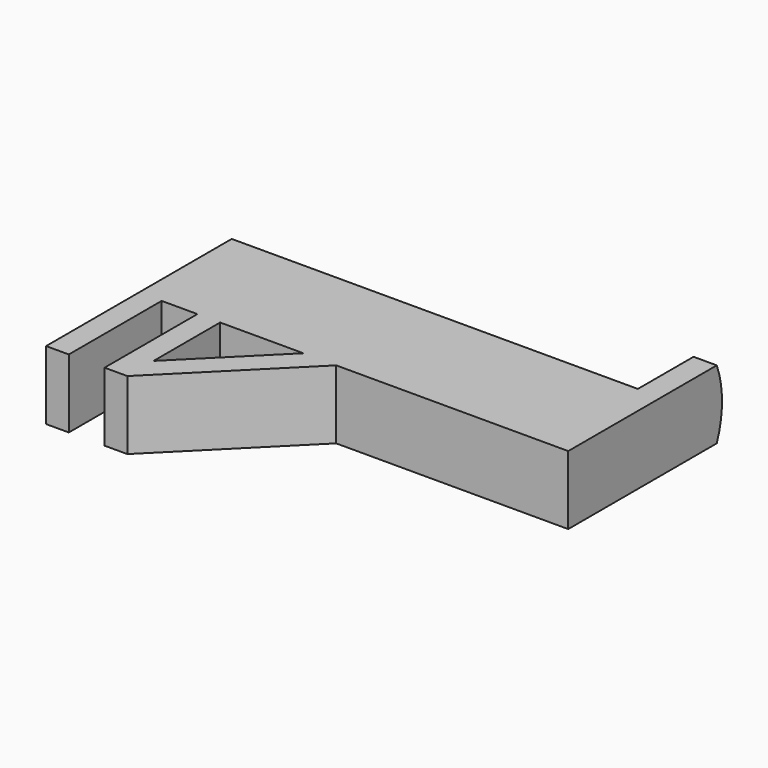
from build123d import *

# Parameters (mm, degrees)
F1_DEPTH = 14.8
F3_DEPTH = 70
F5_DEPTH = 5
F7_DEPTH = 14.8


with BuildPart() as f1:
    # F0 (on Top) → F1 (new body)
    with BuildSketch(Plane.XY):
        Polygon((0, 50), (0, 0), (4.9, 0), (4.9, 25), (12.6, 25), (12.6, 0), (17.5, 0), (17.5, 50), align=None)
    extrude(amount=F1_DEPTH)

    # F2 (on face) → F3 (join)
    with BuildSketch(Plane.YZ.offset(17.5)):
        with BuildLine():
            ThreePointArc((50, 0), (51.419365, 7.4), (50, 14.8))
            Line((50, 14.8), (25, 14.8))
            Line((25, 14.8), (25, 0))
            Line((25, 0), (50, 0))
        make_face()
    extrude(amount=F3_DEPTH)

    # F4 (on face) → F5 (join)
    with BuildSketch(Plane.YZ.offset(87.5)):
        with BuildLine():
            Line((65, 14.8), (25, 14.8))
            Line((25, 14.8), (25, 0))
            Line((25, 0), (65, 0))
            ThreePointArc((65, 0), (66.419365, 7.4), (65, 14.8))
        make_face()
    extrude(amount=F5_DEPTH)

    # F6 (on face) → F7 (join, through all)
    with BuildSketch(Plane.XY.offset(14.8)):
        Polygon((17.5, 7.071068), (17.5, 0), (42.5, 25), (35.428932, 25), align=None)
    extrude(amount=-F7_DEPTH)


solid = f1.part
